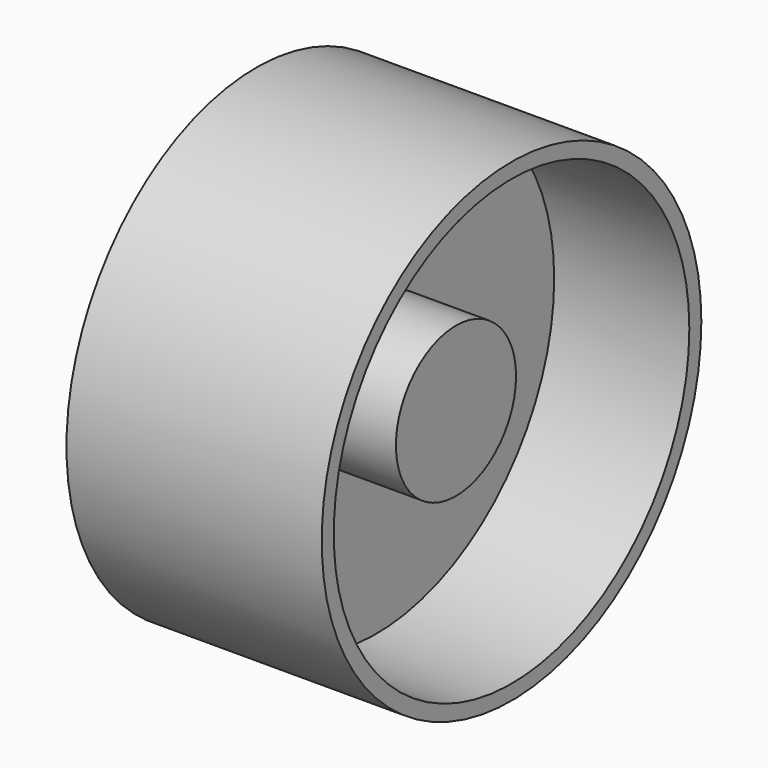
from build123d import *

# Parameters (mm, degrees)
F0_R     = 7.4
F0_R_2   = 2.5
F1_DEPTH = 4
F0_R_3   = 7.9
F2_DEPTH = 8.5
F3_DEPTH = 6.65


with BuildPart() as f1:
    # F0 (on Right) → F1 (new body)
    with BuildSketch(Plane.YZ):
        Circle(F0_R)
        Circle(F0_R_2, mode=Mode.SUBTRACT)
    extrude(amount=F1_DEPTH)

    # F0 (on Right) → F2 (join)
    with BuildSketch(Plane.YZ):
        Circle(F0_R_3)
        Circle(F0_R, mode=Mode.SUBTRACT)
    extrude(amount=F2_DEPTH)

    # F0 (on Right) → F3 (join)
    with BuildSketch(Plane.YZ):
        Circle(F0_R_2)
    extrude(amount=F3_DEPTH)


solid = f1.part
